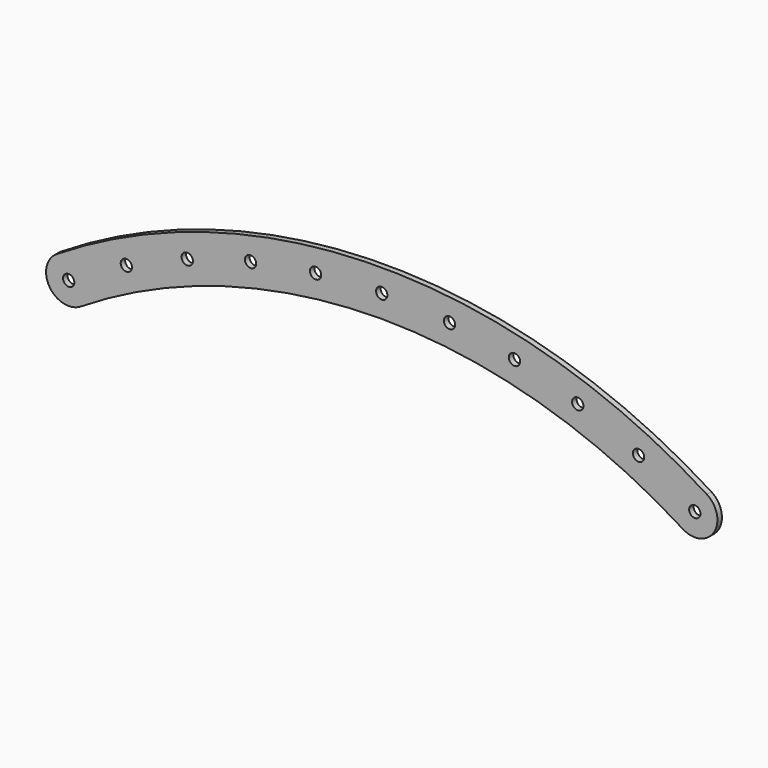
from build123d import *

# Parameters (mm, degrees)
F0_R     = 6.35
F1_DEPTH = 6.35


with BuildPart() as f1:
    # F0 (on Front) → F1 (new body)
    with BuildSketch(Plane.XZ):
        with BuildLine():
            ThreePointArc((574.071312, -34.08693), (609.104135, -26.148333), (601.165538, 8.88449))
            ThreePointArc((601.165538, 8.88449), (235.987175, 114.39878), (-129.191188, 8.88449))
            ThreePointArc((-129.191188, 8.88449), (-137.129785, -26.148333), (-102.096962, -34.08693))
            ThreePointArc((-102.096962, -34.08693), (235.987175, 63.59878), (574.071312, -34.08693))
        make_face()
        with Locations((-115.644075, -12.60122)):
            Circle(F0_R, mode=Mode.SUBTRACT)
        with Locations((-50.873572, 23.319601)):
            Circle(F0_R, mode=Mode.SUBTRACT)
        with Locations((587.618425, -12.60122)):
            Circle(F0_R, mode=Mode.SUBTRACT)
        with Locations((524.463329, 22.536241)):
            Circle(F0_R, mode=Mode.SUBTRACT)
        with Locations((17.517195, 51.748924)):
            Circle(F0_R, mode=Mode.SUBTRACT)
        with Locations((88.665117, 72.327961)):
            Circle(F0_R, mode=Mode.SUBTRACT)
        with Locations((161.672284, 84.796999)):
            Circle(F0_R, mode=Mode.SUBTRACT)
        with Locations((385.058614, 71.924401)):
            Circle(F0_R, mode=Mode.SUBTRACT)
        with Locations((456.150232, 51.151695)):
            Circle(F0_R, mode=Mode.SUBTRACT)
        with Locations((312.085672, 84.592201)):
            Circle(F0_R, mode=Mode.SUBTRACT)
        with Locations((235.987175, 88.99878)):
            Circle(F0_R, mode=Mode.SUBTRACT)
    extrude(amount=F1_DEPTH)


solid = f1.part
